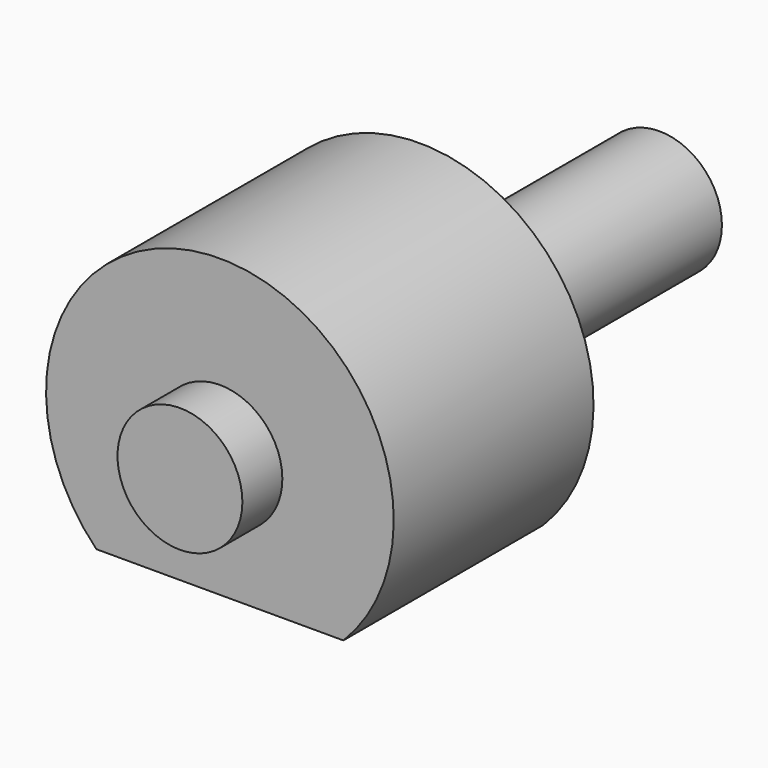
from build123d import *

# Parameters (mm, degrees)
F0_R     = 3.175
F2_DEPTH = 12.7
F1_R     = 3.175
F3_DEPTH = 15.24


with BuildPart() as f2:
    # F0 (on Front) → F2 (new body)
    with BuildSketch(Plane.XZ):
        with BuildLine():
            ThreePointArc((6.278016, -6.223), (0, 8.839639), (-6.278016, -6.223))
            Line((-6.278016, -6.223), (6.278016, -6.223))
        make_face()
        Circle(F0_R, mode=Mode.SUBTRACT)
    extrude(amount=F2_DEPTH)


with BuildPart() as f3:
    # F1 (on face) → F3 (new body, symmetric)
    with BuildSketch(Plane.XZ):
        Circle(F1_R)
    extrude(amount=F3_DEPTH, both=True)


solid = Compound([f2.part, f3.part])
